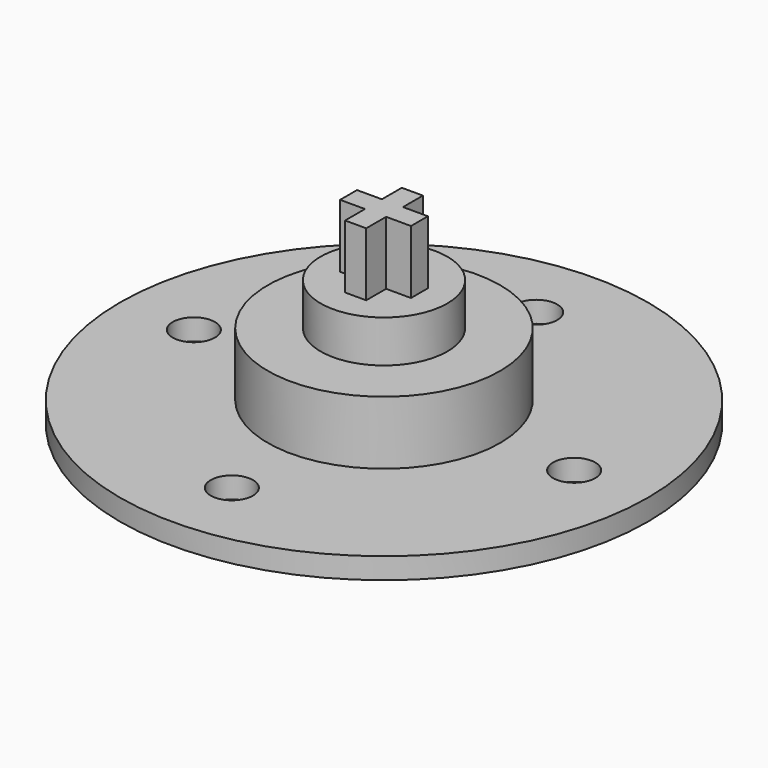
from build123d import *

# Parameters (mm, degrees)
F0_R     = 12.5
F0_R_2   = 1
F1_DEPTH = 1
F2_R     = 5.5
F3_DEPTH = 3
F4_R     = 3
F5_DEPTH = 2
F6_W     = 1
F6_H     = 1.1770509831
F6_H_2   = 1
F6_W_2   = 1.1770509831
F7_DEPTH = 3


with BuildPart() as f1:
    # F0 (on Top) → F1 (new body)
    with BuildSketch(Plane.XY):
        Circle(F0_R)
        with Locations((0, -9)):
            Circle(F0_R_2, mode=Mode.SUBTRACT)
        with Locations((-9, 0)):
            Circle(F0_R_2, mode=Mode.SUBTRACT)
        with Locations((9, 0)):
            Circle(F0_R_2, mode=Mode.SUBTRACT)
        with Locations((0, 9)):
            Circle(F0_R_2, mode=Mode.SUBTRACT)
    extrude(amount=F1_DEPTH)

    # F2 (on face) → F3 (join)
    with BuildSketch(Plane.XY.offset(1)):
        Circle(F2_R)
    extrude(amount=F3_DEPTH)

    # F4 (on face) → F5 (join)
    with BuildSketch(Plane.XY.offset(4)):
        Circle(F4_R)
    extrude(amount=F5_DEPTH)

    # F6 (on face) → F7 (join)
    with BuildSketch(Plane.XY.offset(6)):
        with Locations((0, 1.0885254916)):
            Rectangle(F6_W, F6_H)
        Rectangle(F6_W, F6_H_2)
        with Locations((-1.0885254916, 0)):
            Rectangle(F6_W_2, F6_H_2)
        with Locations((1.0885254916, 0)):
            Rectangle(F6_W_2, F6_H_2)
        with Locations((0, -1.0885254916)):
            Rectangle(F6_W, F6_H)
    extrude(amount=F7_DEPTH)


solid = f1.part
